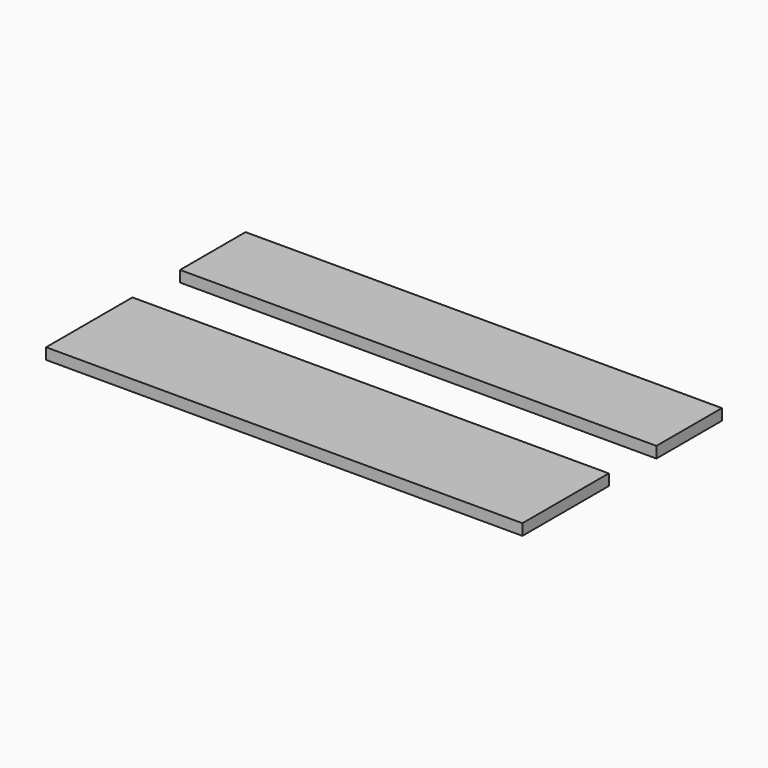
from build123d import *

# Parameters (mm, degrees)
F0_W     = 812.8
F0_H     = 139.7
F1_DEPTH = 19.05
F2_W     = 812.8
F2_H     = 184.15
F3_DEPTH = 19.05
F4_W     = 4.7625
F4_H     = 38.1
F5_DEPTH = 6.35


with BuildPart() as f1:
    # F0 (on Top) → F1 (new body)
    with BuildSketch(Plane.XY):
        Rectangle(F0_W, F0_H)
    extrude(amount=F1_DEPTH)


with BuildPart() as f3:
    # F2 (on Top) → F3 (new body)
    with BuildSketch(Plane.XY):
        with Locations((0, -263.525)):
            Rectangle(F2_W, F2_H)
    extrude(amount=F3_DEPTH)

    # F4 (on face) → F5 (cut)
    with BuildSketch(Plane(origin=(0, 0, 0), x_dir=(1, 0, 0), z_dir=(0, 0, -1))):
        with Locations((71.12, 190.5)):
            Rectangle(F4_W, F4_H)
        with Locations((213.36, 190.5)):
            Rectangle(F4_W, F4_H)
        with Locations((-213.36, 190.5)):
            Rectangle(F4_W, F4_H)
        with Locations((-71.12, 190.5)):
            Rectangle(F4_W, F4_H)
    extrude(amount=-F5_DEPTH, mode=Mode.SUBTRACT)


solid = Compound([f1.part, f3.part])
